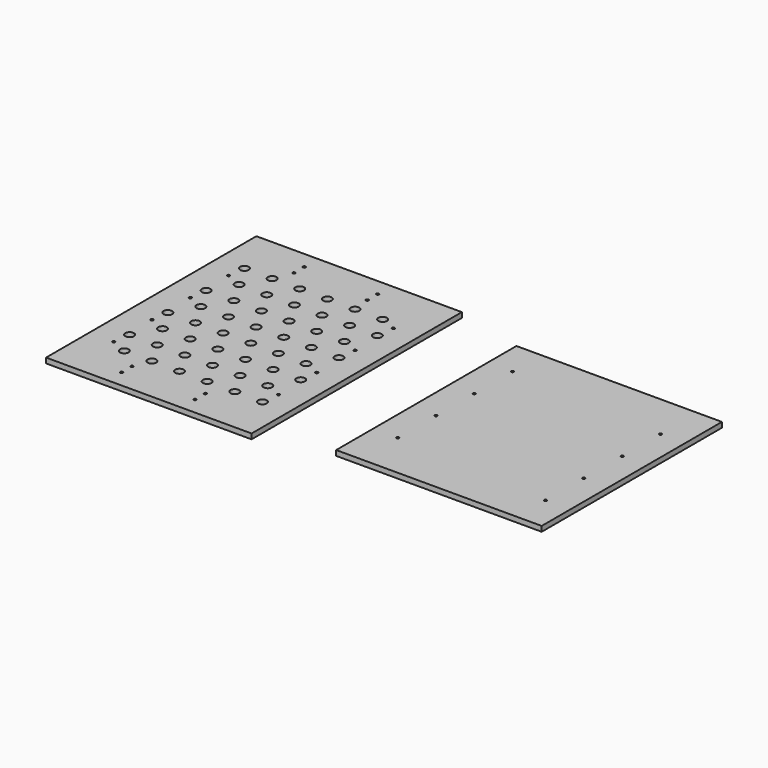
from build123d import *

# Parameters (mm, degrees)
F0_W     = 238
F0_H     = 260.938
F0_R     = 1.5
F0_R_2   = 1.55
F0_R_3   = 5
F1_DEPTH = 6


with BuildPart() as f1:
    # F0 (on Top) → F1 (new body)
    with BuildSketch(Plane.XY):
        Rectangle(F0_W, F0_H)
        with Locations((-90.5, -77.075)):
            Circle(F0_R, mode=Mode.SUBTRACT)
        with Locations((90.5, -89.2)):
            Circle(F0_R, mode=Mode.SUBTRACT)
        with Locations((-90.5, -21.65)):
            Circle(F0_R, mode=Mode.SUBTRACT)
        with Locations((90.5, -33.775)):
            Circle(F0_R, mode=Mode.SUBTRACT)
        with Locations((-90.5, 33.775)):
            Circle(F0_R, mode=Mode.SUBTRACT)
        with Locations((90.5, 21.65)):
            Circle(F0_R, mode=Mode.SUBTRACT)
        with Locations((-90.5, 89.2)):
            Circle(F0_R, mode=Mode.SUBTRACT)
        with Locations((90.5, 77.075)):
            Circle(F0_R, mode=Mode.SUBTRACT)
        Polygon((-199, -152.969), (-199, -130.469), (-199, 130.469), (-199, 151.469), (-437, 151.469), (-437, 130.469), (-437, -130.469), (-437, -152.969), align=None)
        with Locations((-365.5, -132.969)):
            Circle(F0_R_2, mode=Mode.SUBTRACT)
        with Locations((-365.5, -117.969)):
            Circle(F0_R_2, mode=Mode.SUBTRACT)
        with Locations((-390, -98.494)):
            Circle(F0_R_3, mode=Mode.SUBTRACT)
        with Locations((-408.5, -90.7)):
            Circle(F0_R_2, mode=Mode.SUBTRACT)
        with Locations((-358, -98.494)):
            Circle(F0_R_3, mode=Mode.SUBTRACT)
        with Locations((-326, -98.494)):
            Circle(F0_R_3, mode=Mode.SUBTRACT)
        with Locations((-280.5, -132.969)):
            Circle(F0_R_2, mode=Mode.SUBTRACT)
        with Locations((-280.5, -117.969)):
            Circle(F0_R_2, mode=Mode.SUBTRACT)
        with Locations((-294, -98.494)):
            Circle(F0_R_3, mode=Mode.SUBTRACT)
        with Locations((-262, -98.494)):
            Circle(F0_R_3, mode=Mode.SUBTRACT)
        with Locations((-230, -98.494)):
            Circle(F0_R_3, mode=Mode.SUBTRACT)
        with Locations((-227.5, -78.325)):
            Circle(F0_R_2, mode=Mode.SUBTRACT)
        with Locations((-406, -70.781)):
            Circle(F0_R_3, mode=Mode.SUBTRACT)
        with Locations((-374, -70.781)):
            Circle(F0_R_3, mode=Mode.SUBTRACT)
        with Locations((-390, -43.069)):
            Circle(F0_R_3, mode=Mode.SUBTRACT)
        with Locations((-342, -70.781)):
            Circle(F0_R_3, mode=Mode.SUBTRACT)
        with Locations((-310, -70.781)):
            Circle(F0_R_3, mode=Mode.SUBTRACT)
        with Locations((-358, -43.069)):
            Circle(F0_R_3, mode=Mode.SUBTRACT)
        with Locations((-326, -43.069)):
            Circle(F0_R_3, mode=Mode.SUBTRACT)
        with Locations((-408.5, -35.275)):
            Circle(F0_R_2, mode=Mode.SUBTRACT)
        with Locations((-406, -15.356)):
            Circle(F0_R_3, mode=Mode.SUBTRACT)
        with Locations((-374, -15.356)):
            Circle(F0_R_3, mode=Mode.SUBTRACT)
        with Locations((-342, -15.356)):
            Circle(F0_R_3, mode=Mode.SUBTRACT)
        with Locations((-310, -15.356)):
            Circle(F0_R_3, mode=Mode.SUBTRACT)
        with Locations((-278, -70.781)):
            Circle(F0_R_3, mode=Mode.SUBTRACT)
        with Locations((-246, -70.781)):
            Circle(F0_R_3, mode=Mode.SUBTRACT)
        with Locations((-294, -43.069)):
            Circle(F0_R_3, mode=Mode.SUBTRACT)
        with Locations((-262, -43.069)):
            Circle(F0_R_3, mode=Mode.SUBTRACT)
        with Locations((-230, -43.069)):
            Circle(F0_R_3, mode=Mode.SUBTRACT)
        with Locations((-278, -15.356)):
            Circle(F0_R_3, mode=Mode.SUBTRACT)
        with Locations((-246, -15.356)):
            Circle(F0_R_3, mode=Mode.SUBTRACT)
        with Locations((-227.5, -22.9)):
            Circle(F0_R_2, mode=Mode.SUBTRACT)
        with Locations((-390, 12.356)):
            Circle(F0_R_3, mode=Mode.SUBTRACT)
        with Locations((-408.5, 20.15)):
            Circle(F0_R_2, mode=Mode.SUBTRACT)
        with Locations((-358, 12.356)):
            Circle(F0_R_3, mode=Mode.SUBTRACT)
        with Locations((-326, 12.356)):
            Circle(F0_R_3, mode=Mode.SUBTRACT)
        with Locations((-406, 40.069)):
            Circle(F0_R_3, mode=Mode.SUBTRACT)
        with Locations((-374, 40.069)):
            Circle(F0_R_3, mode=Mode.SUBTRACT)
        with Locations((-390, 67.781)):
            Circle(F0_R_3, mode=Mode.SUBTRACT)
        with Locations((-342, 40.069)):
            Circle(F0_R_3, mode=Mode.SUBTRACT)
        with Locations((-310, 40.069)):
            Circle(F0_R_3, mode=Mode.SUBTRACT)
        with Locations((-358, 67.781)):
            Circle(F0_R_3, mode=Mode.SUBTRACT)
        with Locations((-326, 67.781)):
            Circle(F0_R_3, mode=Mode.SUBTRACT)
        with Locations((-294, 12.356)):
            Circle(F0_R_3, mode=Mode.SUBTRACT)
        with Locations((-262, 12.356)):
            Circle(F0_R_3, mode=Mode.SUBTRACT)
        with Locations((-230, 12.356)):
            Circle(F0_R_3, mode=Mode.SUBTRACT)
        with Locations((-227.5, 32.525)):
            Circle(F0_R_2, mode=Mode.SUBTRACT)
        with Locations((-278, 40.069)):
            Circle(F0_R_3, mode=Mode.SUBTRACT)
        with Locations((-246, 40.069)):
            Circle(F0_R_3, mode=Mode.SUBTRACT)
        with Locations((-294, 67.781)):
            Circle(F0_R_3, mode=Mode.SUBTRACT)
        with Locations((-262, 67.781)):
            Circle(F0_R_3, mode=Mode.SUBTRACT)
        with Locations((-230, 67.781)):
            Circle(F0_R_3, mode=Mode.SUBTRACT)
        with Locations((-408.5, 75.575)):
            Circle(F0_R_2, mode=Mode.SUBTRACT)
        with Locations((-406, 95.494)):
            Circle(F0_R_3, mode=Mode.SUBTRACT)
        with Locations((-374, 95.494)):
            Circle(F0_R_3, mode=Mode.SUBTRACT)
        with Locations((-342, 95.494)):
            Circle(F0_R_3, mode=Mode.SUBTRACT)
        with Locations((-310, 95.494)):
            Circle(F0_R_3, mode=Mode.SUBTRACT)
        with Locations((-365.5, 116.469)):
            Circle(F0_R_2, mode=Mode.SUBTRACT)
        with Locations((-365.5, 131.469)):
            Circle(F0_R_2, mode=Mode.SUBTRACT)
        with Locations((-278, 95.494)):
            Circle(F0_R_3, mode=Mode.SUBTRACT)
        with Locations((-246, 95.494)):
            Circle(F0_R_3, mode=Mode.SUBTRACT)
        with Locations((-227.5, 87.95)):
            Circle(F0_R_2, mode=Mode.SUBTRACT)
        with Locations((-280.5, 116.469)):
            Circle(F0_R_2, mode=Mode.SUBTRACT)
        with Locations((-280.5, 131.469)):
            Circle(F0_R_2, mode=Mode.SUBTRACT)
    extrude(amount=F1_DEPTH)


solid = f1.part
